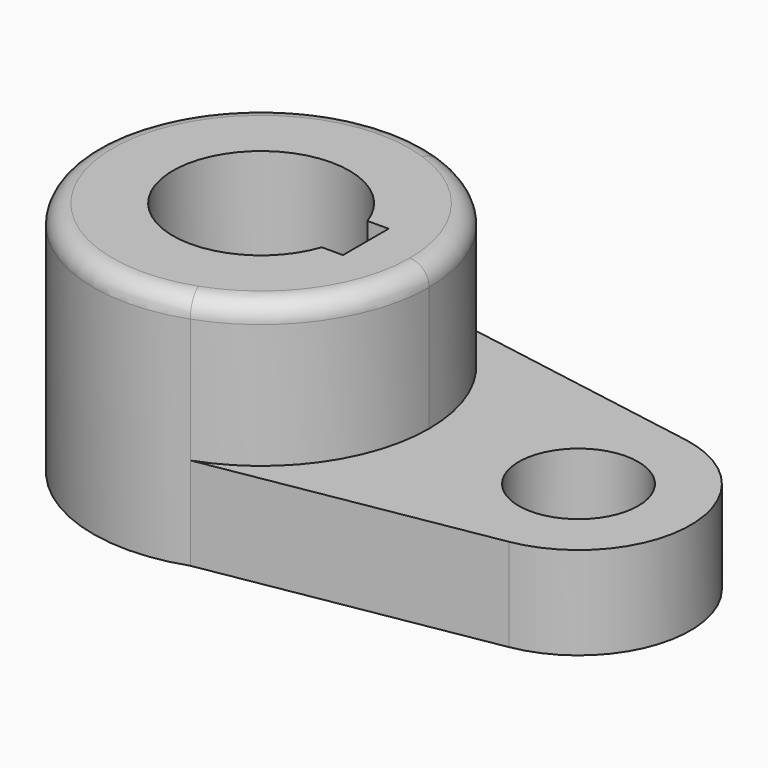
from build123d import *

# Parameters (mm, degrees)
F0_R     = 24.9326348986
F1_DEPTH = 40.2336
F2_R     = 10.16
F3_DEPTH = 15.7734
F4_R     = 3.302


with BuildPart() as f1:
    # F0 (on Top) → F1 (new body)
    with BuildSketch(Plane.XY):
        with BuildLine():
            ThreePointArc((9.5121844836, -26.9452959039), (23.3274655355, -16.5033322905), (28.575, 0))
            ThreePointArc((28.575, 0), (23.3274655355, 16.5033322905), (9.5121844836, 26.9452959039))
            ThreePointArc((9.5121844836, 26.9452959039), (-28.575, 0), (9.5121844836, -26.9452959039))
        make_face()
        Circle(F0_R, mode=Mode.SUBTRACT)
        Circle(F0_R)
        with BuildLine():
            ThreePointArc((14.2048280027, -4.8514), (-15.0104370538, 0), (14.2048280027, 4.8514))
            Line((14.2048280027, 4.8514), (17.8063629462, 4.8514))
            Line((17.8063629462, 4.8514), (17.8063629462, -4.8514))
            Line((17.8063629462, -4.8514), (14.2048280027, -4.8514))
        make_face(mode=Mode.SUBTRACT)
    extrude(amount=F1_DEPTH)

    # F2 (on face) → F3 (join)
    with BuildSketch(Plane.XY):
        with BuildLine():
            Line((57.1919272622, 18.7764181619), (9.5121844836, 26.9452959039))
            ThreePointArc((9.5121844836, 26.9452959039), (23.3274655355, 16.5033322905), (28.575, 0))
            ThreePointArc((28.575, 0), (23.3274655355, -16.5033322905), (9.5121844836, -26.9452959039))
            Line((9.5121844836, -26.9452959039), (57.1919272622, -18.7764181619))
            ThreePointArc((57.1919272622, -18.7764181619), (73.025, 0), (57.1919272622, 18.7764181619))
        make_face()
        with Locations((53.975, 0)):
            Circle(F2_R, mode=Mode.SUBTRACT)
    extrude(amount=F3_DEPTH)

    # F4
    f4_edges = [f1.edges().sort_by_distance(p)[0] for p in [
        (-28.575, 0, 40.2336),
    ]]
    fillet(f4_edges, radius=F4_R)


solid = f1.part
